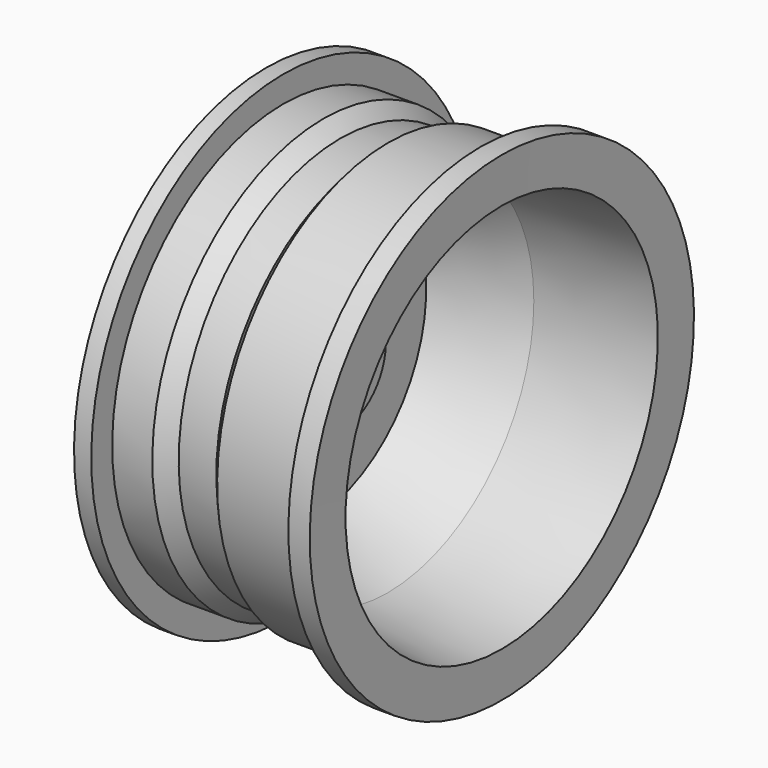
from build123d import *


with BuildPart() as f1:
    # F0 (on Front) → F1 (revolve)
    with BuildSketch(Plane.XZ):
        Polygon((-63.250169, 65.144755), (-76.658033, 65.144755), (-76.658033, 54.65164), (-77.071565, 30.926656), (-61.379056, 25.757357), (-61.379056, 15.4255), (-82.042769, 15.4255), (-82.042769, -84.449112), (-53.917158, -84.449112), (-53.917158, -121.758595), (-18.071475, -121.758595), (-18.071475, -78.552626), (-42.846885, -70.391312), (-42.846885, -8.307049), (18.071476, 20.257542), (106.680006, 30.167704), (106.800616, 65.144755), (90.154849, 65.144755), (90.154849, 44.741478), (18.405836, 44.741478), (10.369949, 35.515223), (-18.903643, 35.515223), (-32.062296, 44.741478), (-63.250169, 44.741478), align=None)
    revolve(axis=Axis((-35.994316, 0, -121.758595), (-1, 0, 0)))


solid = f1.part
